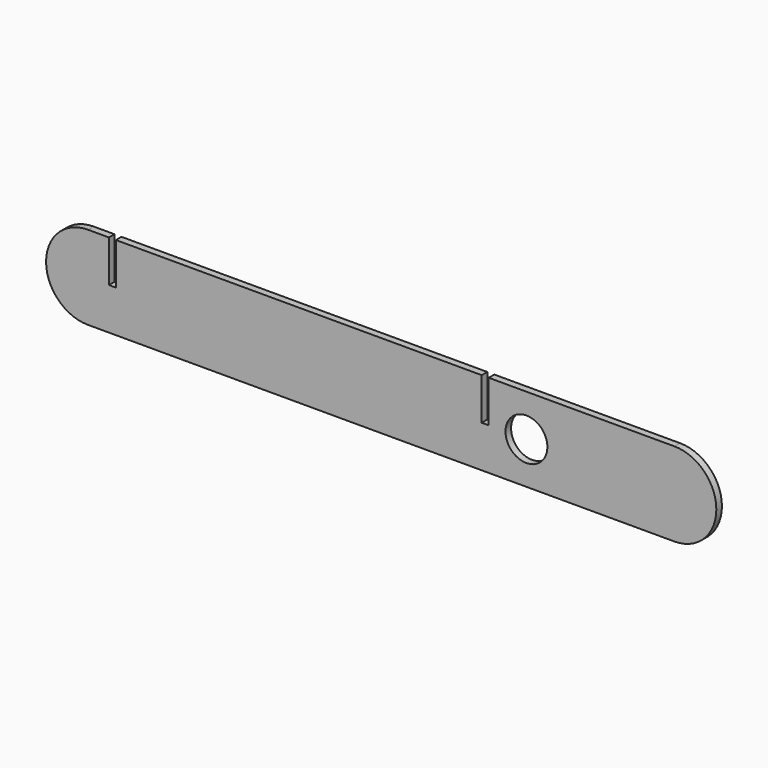
from build123d import *

# Parameters (mm, degrees)
F0_R     = 4.7625
F1_DEPTH = 1.5875


with BuildPart() as f1:
    # F0 (on Front) → F1 (new body)
    with BuildSketch(Plane.XZ):
        with BuildLine():
            Line((-66.675, -9.525), (66.675, -9.525))
            ThreePointArc((66.675, -9.525), (76.2, 0), (66.675, 9.525))
            Line((66.675, 9.525), (24.4475, 9.525))
            Line((24.4475, 9.525), (24.4475, 0))
            Line((24.4475, 0), (22.86, 0))
            Line((22.86, 0), (22.86, 9.525))
            Line((22.86, 9.525), (-60.325, 9.525))
            Line((-60.325, 9.525), (-60.325, 0))
            Line((-60.325, 0), (-61.9125, 0))
            Line((-61.9125, 0), (-61.9125, 9.525))
            Line((-61.9125, 9.525), (-66.675, 9.525))
            ThreePointArc((-66.675, 9.525), (-76.2, 0), (-66.675, -9.525))
        make_face()
        with Locations((33.02, 0)):
            Circle(F0_R, mode=Mode.SUBTRACT)
    extrude(amount=F1_DEPTH)


solid = f1.part
